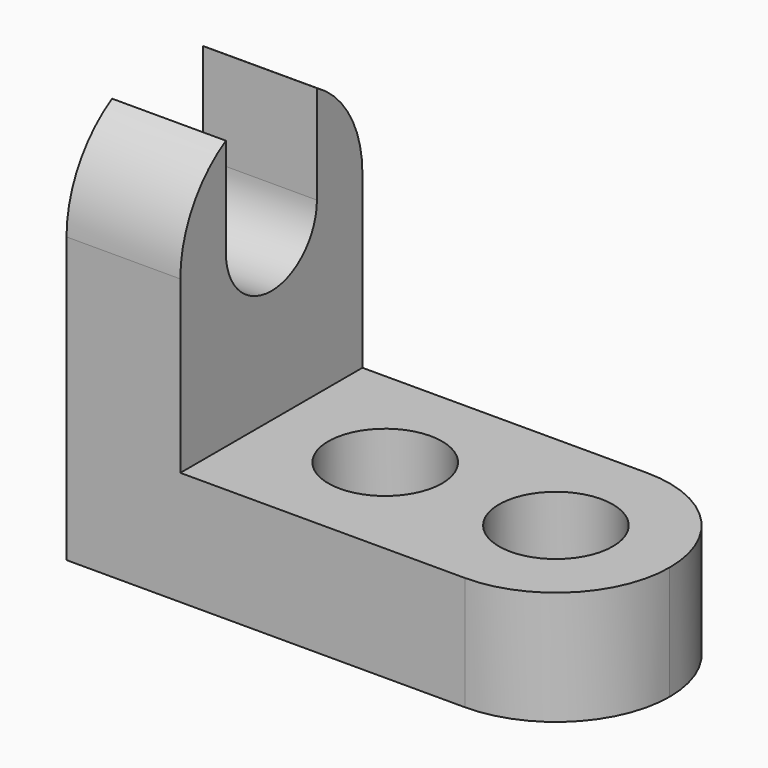
from build123d import *

# Parameters (mm, degrees)
F1_DEPTH = 25.4
F2_R     = 6.35
F3_DEPTH = 12.701
F5_DEPTH = 12.701
F7_DEPTH = 12.701
F9_DEPTH = 12.701


with BuildPart() as f1:
    # F0 (on Front) → F1 (new body)
    with BuildSketch(Plane.XZ):
        Polygon((-72.08584, 8.36633), (-14.93584, 8.36633), (-14.93584, 21.06633), (-59.38584, 21.06633), (-59.38584, 52.81633), (-72.08584, 52.81633), align=None)
    extrude(amount=F1_DEPTH)

    # F2 (on face) → F3 (cut, through all)
    with BuildSketch(Plane.XY.offset(21.06633)):
        with Locations((-46.68584, -12.7)):
            Circle(F2_R)
        with Locations((-27.63584, -12.7)):
            Circle(F2_R)
    extrude(amount=-F3_DEPTH, mode=Mode.SUBTRACT)

    # F4 (on face) → F5 (cut, through all)
    with BuildSketch(Plane.XY.offset(21.06633)):
        with BuildLine():
            ThreePointArc((-27.63584, 0), (-18.655584, -3.719744), (-14.93584, -12.7))
            Line((-14.93584, -12.7), (-14.93584, 0))
            Line((-14.93584, 0), (-27.63584, 0))
        make_face()
        with BuildLine():
            ThreePointArc((-14.93584, -12.7), (-18.655584, -21.680256), (-27.63584, -25.4))
            Line((-27.63584, -25.4), (-14.93584, -25.4))
            Line((-14.93584, -25.4), (-14.93584, -12.7))
        make_face()
    extrude(amount=-F5_DEPTH, mode=Mode.SUBTRACT)

    # F6 (on face) → F7 (cut, through all)
    with BuildSketch(Plane.YZ.offset(-59.38584)):
        with BuildLine():
            ThreePointArc((-25.4, 40.11633), (-21.680256, 49.096586), (-12.7, 52.81633))
            Line((-12.7, 52.81633), (-25.4, 52.81633))
            Line((-25.4, 52.81633), (-25.4, 40.11633))
        make_face()
        with BuildLine():
            ThreePointArc((-12.7, 52.81633), (-3.719744, 49.096586), (0, 40.11633))
            Line((0, 40.11633), (0, 52.81633))
            Line((0, 52.81633), (-12.7, 52.81633))
        make_face()
    extrude(amount=-F7_DEPTH, mode=Mode.SUBTRACT)

    # F8 (on face) → F9 (cut, through all)
    with BuildSketch(Plane.YZ.offset(-59.38584)):
        with BuildLine():
            ThreePointArc((-19.05, 40.11633), (-12.7, 33.76633), (-6.35, 40.11633))
            Line((-6.35, 40.11633), (-12.7, 40.11633))
            Line((-12.7, 40.11633), (-19.05, 40.11633))
        make_face()
        with BuildLine():
            ThreePointArc((-19.05, 40.11633), (-12.7, 46.46633), (-6.35, 40.11633))
            Line((-6.35, 40.11633), (-6.35, 51.114853))
            ThreePointArc((-6.35, 51.114853), (-12.7, 52.81633), (-19.05, 51.114853))
            Line((-19.05, 51.114853), (-19.05, 40.11633))
        make_face()
        with BuildLine():
            Line((-12.7, 40.11633), (-6.35, 40.11633))
            ThreePointArc((-6.35, 40.11633), (-12.7, 46.46633), (-19.05, 40.11633))
            Line((-19.05, 40.11633), (-12.7, 40.11633))
        make_face()
    extrude(amount=-F9_DEPTH, mode=Mode.SUBTRACT)


solid = f1.part
